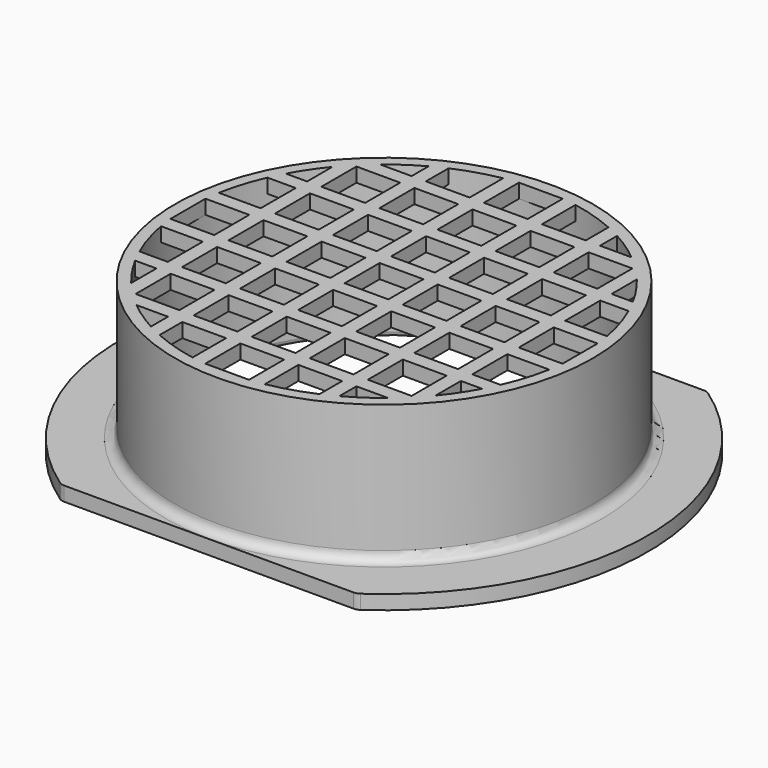
from build123d import *

# Parameters (mm, degrees)
BOX004_W          = 100
BOX004_H          = 30
BOX004_DEPTH      = 10
BOX003_W          = 100
BOX003_H          = 30
BOX003_DEPTH      = 10
CYLINDER003_R     = 20.95
CYLINDER003_DEPTH = 20
CYLINDER004_R     = 35
CYLINDER004_DEPTH = 20
BOX_W             = 4.6
BOX_H             = 4.6
BOX_DEPTH         = 1.5
ARRAY_X_COUNT     = 7
ARRAY_X_PITCH     = 6.1
ARRAY_Y_COUNT     = 7
ARRAY_Y_PITCH     = 6.1
BOX002_W          = 45
BOX002_H          = 45
BOX002_DEPTH      = 1.5
CYLINDER002_R     = 20.75
CYLINDER002_DEPTH = 20
CYLINDER001_R     = 21.95
CYLINDER001_DEPTH = 16
CYLINDER_R        = 27.75
CYLINDER_DEPTH    = 1.5
FILLET_R          = 1
FILLET001_R       = 1
FILLET002_R       = 0.5


with BuildPart() as cube004:
    # Box004 → Box004 (new body)
    with BuildSketch(Plane(origin=(-50, -53, 0), x_dir=(1, 0, 0), z_dir=(0, 0, 1))):
        with Locations((50, 15)):
            Rectangle(BOX004_W, BOX004_H)
    extrude(amount=BOX004_DEPTH)


with BuildPart() as cube003:
    # Box003 → Box003 (new body)
    with BuildSketch(Plane(origin=(-50, 23, 0), x_dir=(1, 0, 0), z_dir=(0, 0, 1))):
        with Locations((50, 15)):
            Rectangle(BOX003_W, BOX003_H)
    extrude(amount=BOX003_DEPTH)


with BuildPart() as cylinder003:
    # Cylinder003 → Cylinder003 (new body)
    with BuildSketch(Plane.XY.offset(-2)):
        Circle(CYLINDER003_R)
    extrude(amount=CYLINDER003_DEPTH)


with BuildPart() as corte_cilindro:
    # Cylinder004 → Cylinder004 (new body)
    with BuildSketch(Plane.XY.offset(-2)):
        Circle(CYLINDER004_R)
    extrude(amount=CYLINDER004_DEPTH)

    # Cut001: cut Cylinder003
    add(cylinder003.part, mode=Mode.SUBTRACT)


with BuildPart() as array:
    # Box → Box (new body)
    with BuildSketch(Plane(origin=(-2.3, -2.3, 0), x_dir=(1, 0, 0), z_dir=(0, 0, 1))):
        with Locations((2.3, 2.3)):
            Rectangle(BOX_W, BOX_H)
    extrude(amount=BOX_DEPTH)

    # Array X: Array ×7


with BuildPart() as array_1:
    add(array.part)
    with Locations(*[(i * ARRAY_X_PITCH, 0, 0) for i in range(1, ARRAY_X_COUNT)]):
        add(array.part)

    # Array Y: Array ×7


with BuildPart() as array_2:
    add(array_1.part)
    with Locations(*[(0, i * ARRAY_Y_PITCH, 0) for i in range(1, ARRAY_Y_COUNT)]):
        add(array_1.part)


with BuildPart() as array_3:
    # Array placement: moved
    add(array_2.part.moved(Location((-18.3, -18.3, 0))))


with BuildPart() as obj1:
    # Box002 → Box002 (new body)
    with BuildSketch(Plane(origin=(-22.6, -22.6, 0), x_dir=(1, 0, 0), z_dir=(0, 0, 1))):
        with Locations((22.5, 22.5)):
            Rectangle(BOX002_W, BOX002_H)
    extrude(amount=BOX002_DEPTH)

    # Cut002: cut Array
    add(array_3.part, mode=Mode.SUBTRACT)

    # Cut003: cut corte_cilindro
    add(corte_cilindro.part, mode=Mode.SUBTRACT)


with BuildPart() as obj1_1:
    # Cut003 placement: moved
    add(obj1.part.moved(Location((0, 0, 14.5))))


with BuildPart() as cylinder002:
    # Cylinder002 → Cylinder002 (new body)
    with BuildSketch(Plane.XY.offset(-2)):
        Circle(CYLINDER002_R)
    extrude(amount=CYLINDER002_DEPTH)


with BuildPart() as cylinder001:
    # Cylinder001 → Cylinder001 (new body)
    with BuildSketch(Plane.XY):
        Circle(CYLINDER001_R)
    extrude(amount=CYLINDER001_DEPTH)


with BuildPart() as fillet002:
    # Cylinder → Cylinder (new body)
    with BuildSketch(Plane.XY):
        Circle(CYLINDER_R)
    extrude(amount=CYLINDER_DEPTH)

    # Fusion: union Cylinder001
    add(cylinder001.part)

    # Fillet
    fillet_edges = [fillet002.edges().sort_by_distance(p)[0] for p in [
        (-21.95, 0, 1.5),
    ]]
    fillet(fillet_edges, radius=FILLET_R)

    # Cut: cut Cylinder002
    add(cylinder002.part, mode=Mode.SUBTRACT)

    # Fusion001: union obj1
    add(obj1_1.part)

    # Cut004: cut Cube003
    add(cube003.part, mode=Mode.SUBTRACT)

    # Cut005: cut Cube004
    add(cube004.part, mode=Mode.SUBTRACT)

    # Fillet001
    fillet001_edges = [fillet002.edges().sort_by_distance(p)[0] for p in [
        (15.526188, 23, 0.75),
        (-15.526188, 23, 0.75),
        (15.526188, -23, 0.75),
        (-15.526188, -23, 0.75),
    ]]
    fillet(fillet001_edges, radius=FILLET001_R)

    # Fillet002
    fillet002_edges = [fillet002.edges().sort_by_distance(p)[0] for p in [
        (-20.75, 0, 0),
    ]]
    fillet(fillet002_edges, radius=FILLET002_R)


solid = fillet002.part
